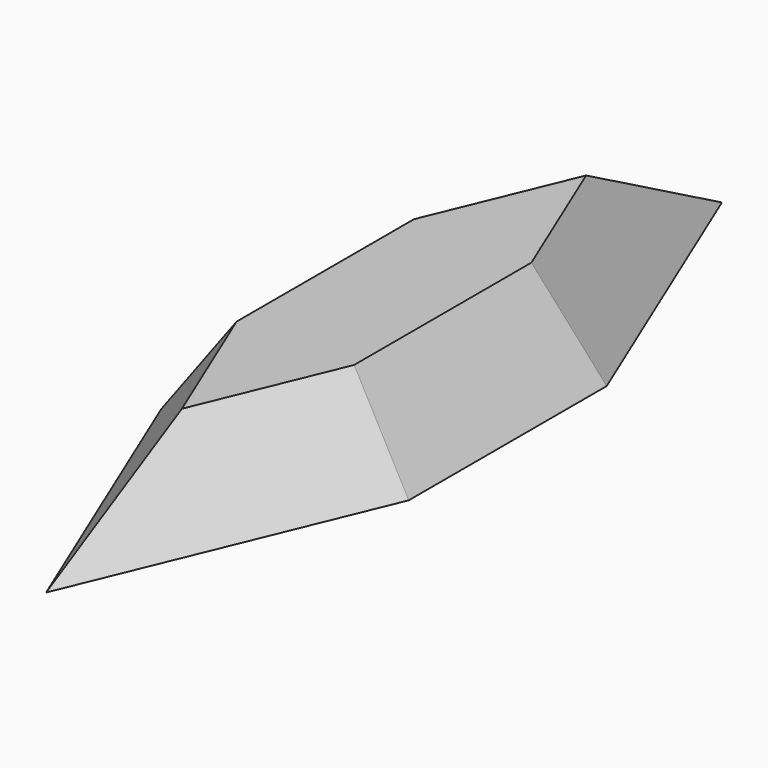
from build123d import *

# Parameters (mm, degrees)
F0_W     = 40
F0_H     = 40
F1_DEPTH = 15
F1_TAPER = 35


with BuildPart() as f1:
    # F0 (on Top) → F1 (new body)
    with BuildSketch(Plane.XY):
        Polygon((0, 68.2842712475), (-20, 20), (20, 20), align=None)
        Rectangle(F0_W, F0_H)
        Polygon((20, -20), (-20, -20), (0, -68.2842712475), align=None)
    extrude(amount=F1_DEPTH, taper=F1_TAPER)


solid = f1.part
